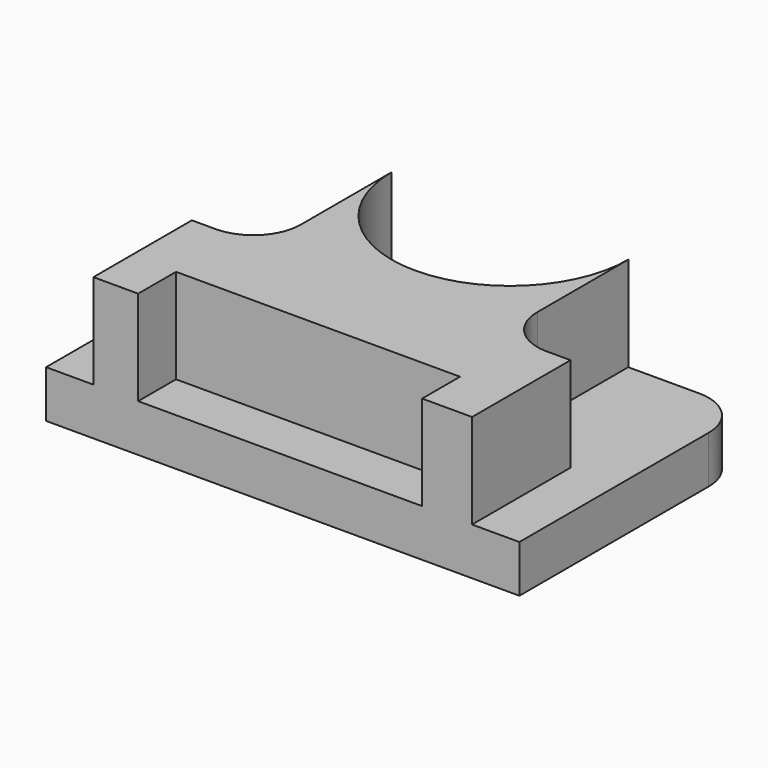
from build123d import *

# Parameters (mm, degrees)
F0_W     = 127
F0_H     = 76.2
F1_DEPTH = 12.7
F3_DEPTH = 25.4
F4_R     = 12.7
F5_DEPTH = 12.701


with BuildPart() as f1:
    # F0 (on Top) → F1 (new body)
    with BuildSketch(Plane.XY):
        Rectangle(F0_W, F0_H)
    extrude(amount=F1_DEPTH)

    # F2 (on face) → F3 (join)
    with BuildSketch(Plane.XY.offset(12.7)):
        with BuildLine():
            Line((31.75, 7.62), (31.75, 38.1))
            ThreePointArc((31.75, 38.1), (0, 6.35), (-31.75, 38.1))
            Line((-31.75, 38.1), (-31.75, 7.62))
            ThreePointArc((-31.75, 7.62), (-35.4697438789, -1.3602561211), (-44.45, -5.08))
            Line((-44.45, -5.08), (-50.8, -5.08))
            Line((-50.8, -5.08), (-50.8, -38.1))
            Line((-50.8, -38.1), (-38.7925468385, -38.1))
            Line((-38.7925468385, -38.1), (-38.7925468385, -25.4))
            Line((-38.7925468385, -25.4), (37.4074531615, -25.4))
            Line((37.4074531615, -25.4), (37.4074531615, -38.1))
            Line((37.4074531615, -38.1), (50.8, -38.1))
            Line((50.8, -38.1), (50.8, -5.08))
            Line((50.8, -5.08), (44.45, -5.08))
            ThreePointArc((44.45, -5.08), (35.4697438789, -1.3602561211), (31.75, 7.62))
        make_face()
    extrude(amount=F3_DEPTH)

    # F4
    f4_edges = [f1.edges().sort_by_distance(p)[0] for p in [
        (-63.5, 38.1, 6.35),
        (63.5, 38.1, 6.35),
    ]]
    fillet(f4_edges, radius=F4_R)

    # F5 (cut, through all): a face of the model
    f5_faces = [f1.faces().sort_by_distance(p)[0] for p in [
        (0, 24.6248814849, 12.7),
    ]]
    extrude(f5_faces, amount=-F5_DEPTH, mode=Mode.SUBTRACT)


solid = f1.part
